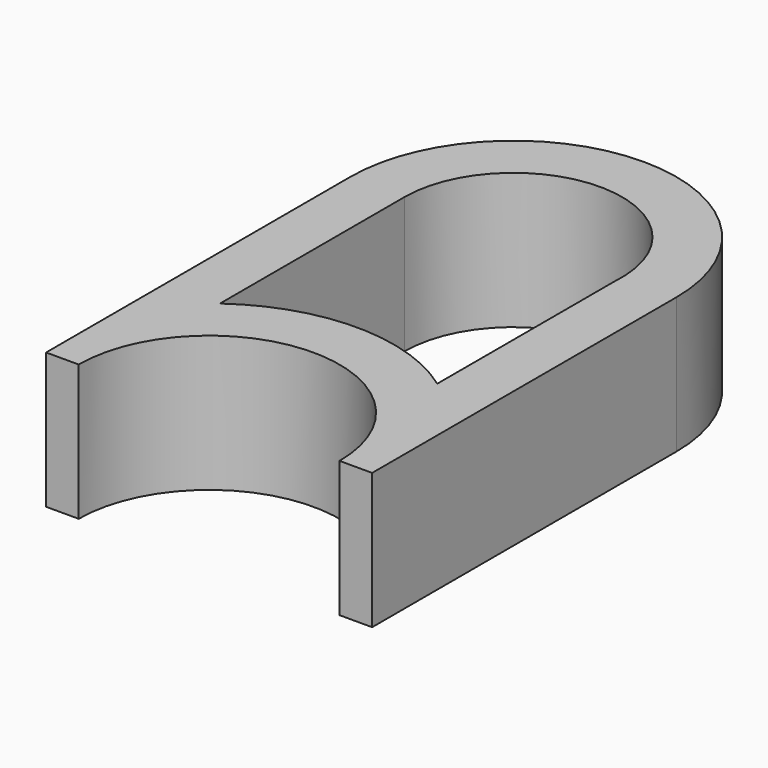
from build123d import *

# Parameters (mm, degrees)
F1_DEPTH = 25


with BuildPart() as f1:
    # F0 (on Top) → F1 (new body)
    with BuildSketch(Plane.XY):
        with BuildLine():
            Line((30, -48.34076), (30, 21.648188))
            ThreePointArc((30, 21.648188), (0, 51.648188), (-30, 21.648188))
            Line((-30, 21.648188), (-30, -48.34076))
            Line((-30, -48.34076), (-24, -48.34076))
            ThreePointArc((-24, -48.34076), (0, -24.34076), (24, -48.34076))
            Line((24, -48.34076), (30, -48.34076))
        make_face()
        with BuildLine():
            ThreePointArc((19.966583, 22.803858), (20, 21.648188), (19.966583, 20.492519))
            Line((19.966583, 20.492519), (19.966583, -20.821029))
            ThreePointArc((19.966583, -20.821029), (-0.020652, -14.340766), (-20, -20.845306))
            Line((-20, -20.845306), (-20, 21.648188))
            ThreePointArc((-20, 21.648188), (-0.578076, 41.639832), (19.966583, 22.803858))
        make_face(mode=Mode.SUBTRACT)
    extrude(amount=F1_DEPTH)


solid = f1.part
